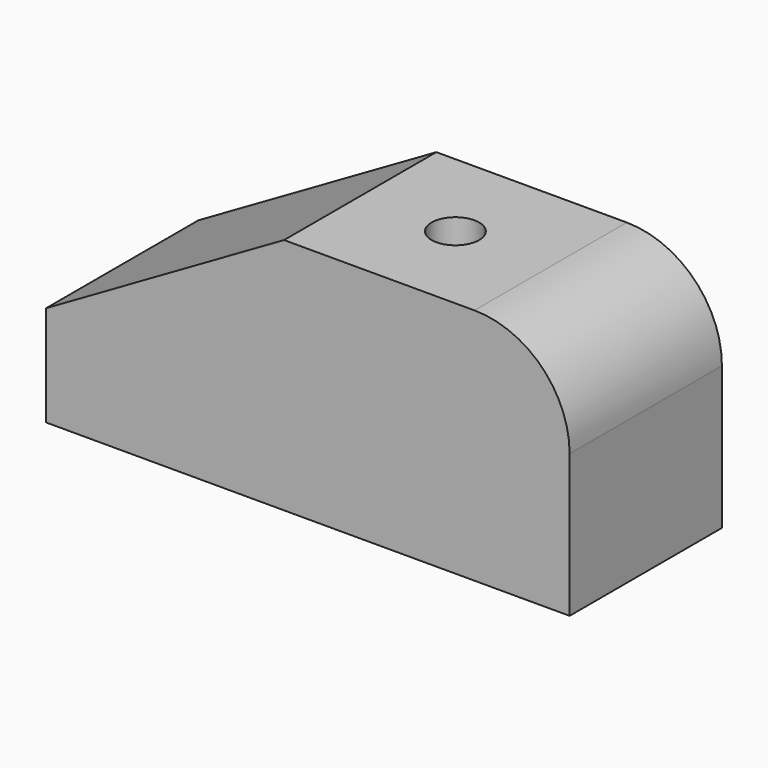
from build123d import *

# Parameters (mm, degrees)
PAD_DEPTH    = 40
SKETCH001_R  = 5
POCKET_DEPTH = 50.001


with BuildPart() as part:
    # Sketch → Pad (new body)
    with BuildSketch(Plane.XZ):
        with BuildLine():
            Line((0, 0), (0, 21.132487))
            Line((0, 21.132487), (50, 50))
            Line((50, 50), (90, 50))
            ThreePointArc((110, 30), (104.142136, 44.142136), (90, 50))
            Line((110, 0), (110, 30))
            Line((0, 0), (110, 0))
        make_face()
    extrude(amount=PAD_DEPTH)

    # Sketch001 (on Face3 of Pad) → Pocket (cut, through all)
    with BuildSketch(Plane(origin=(0, 0, 50), x_dir=(-1, 0, 0), z_dir=(0, 0, 1))):
        with Locations((-70, 20)):
            Circle(SKETCH001_R)
    extrude(amount=-POCKET_DEPTH, mode=Mode.SUBTRACT)


solid = part.part
